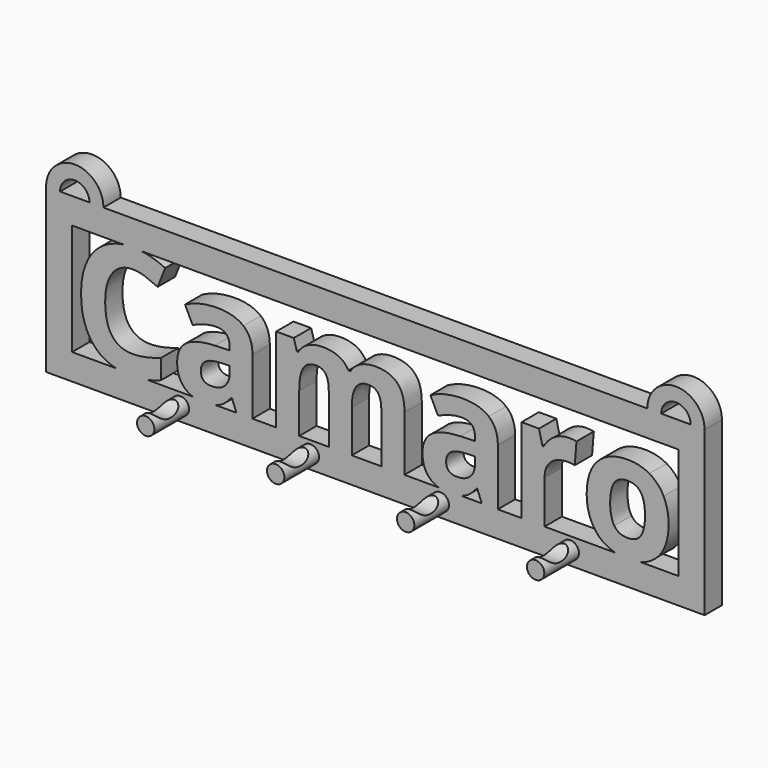
from build123d import *

# Parameters (mm, degrees)
F1_DEPTH = 6.35
F3_R     = 2.54
F4_DEPTH = 12.7
F5_R     = 5.7268820118
F6_DEPTH = 61.722


with BuildPart() as f1:
    # F0 (on Front) → F1 (new body)
    with BuildSketch(Plane.XZ):
        Polygon((-96.52, 26.1363740279), (-96.52, 18.5163740279), (-96.52, -21.7581656293), (96.52, -21.7581656293), (96.52, 26.1363740279), (92.4306, 26.1363740279), (83.7946, 26.1363740279), (79.7052, 26.1363740279), (-79.7118991613, 26.1363740279), (-83.8012991613, 26.1363740279), (-92.4306, 26.1363740279), align=None)
        with BuildLine():
            Line((-88.9, -14.1381656293), (-88.9, 18.5163740279))
            Line((-88.9, 18.5163740279), (-73.7555364835, 18.5163740279))
            add(Edge.make_bspline(
                [(-73.7555364835, 18.5163740279), (-72.4668526308, 18.7006227326), (-71.0703945795, 18.7006227326)],
                knots=[0.6982247505, 0.6982247505, 0.6982247505, 1, 1, 1], degree=2))
            add(Edge.make_bspline(
                [(-71.0703945795, 18.7006227326), (-69.7292151048, 18.7006227326), (-68.3840177456, 18.5163740279)],
                knots=[0, 0, 0, 0.2845995164, 0.2845995164, 0.2845995164], degree=2))
            Line((-68.3840177456, 18.5163740279), (88.9, 18.5163740279))
            Line((88.9, 18.5163740279), (88.9, -14.1381656293))
            Line((88.9, -14.1381656293), (77.6802096988, -14.1381656293))
            add(Edge.make_bspline(
                [(77.6802096988, -14.1381656293), (75.9491649061, -14.5846144137), (73.8908170586, -14.5846144137)],
                knots=[0.6382803275, 0.6382803275, 0.6382803275, 1, 1, 1], degree=2))
            add(Edge.make_bspline(
                [(73.8908170586, -14.5846144137), (71.9855096411, -14.5846144137), (70.3201304819, -14.1381656293)],
                knots=[0, 0, 0, 0.5345224838, 0.5345224838, 0.5345224838], degree=2))
            Line((70.3201304819, -14.1381656293), (49.6195934635, -14.1381656293))
            Line((49.6195934635, -14.1381656293), (42.8661697888, -14.1381656293))
            Line((42.8661697888, -14.1381656293), (35.9072379434, -14.1381656293))
            Line((35.9072379434, -14.1381656293), (31.1947229972, -14.1381656293))
            Line((31.1947229972, -14.1381656293), (25.1527771129, -14.1381656293))
            add(Edge.make_bspline(
                [(25.1527771129, -14.1381656293), (23.6156150178, -14.5846144137), (21.4933200478, -14.5846144137)],
                knots=[0.2677635541, 0.2677635541, 0.2677635541, 1, 1, 1], degree=2))
            add(Edge.make_bspline(
                [(21.4933200478, -14.5846144137), (19.8261760575, -14.5846144137), (18.4907683167, -14.1381656293)],
                knots=[0, 0, 0, 0.4677071733, 0.4677071733, 0.4677071733], degree=2))
            Line((18.4907683167, -14.1381656293), (8.5392188123, -14.1381656293))
            Line((8.5392188123, -14.1381656293), (1.7645356716, -14.1381656293))
            Line((1.7645356716, -14.1381656293), (-6.8951534476, -14.1381656293))
            Line((-6.8951534476, -14.1381656293), (-13.6485771224, -14.1381656293))
            Line((-13.6485771224, -14.1381656293), (-22.3082662415, -14.1381656293))
            Line((-22.3082662415, -14.1381656293), (-29.0616899163, -14.1381656293))
            Line((-29.0616899163, -14.1381656293), (-36.0206217617, -14.1381656293))
            Line((-36.0206217617, -14.1381656293), (-40.7331367079, -14.1381656293))
            Line((-40.7331367079, -14.1381656293), (-46.7750825922, -14.1381656293))
            add(Edge.make_bspline(
                [(-46.7750825922, -14.1381656293), (-48.3122446873, -14.5846144137), (-50.4345396572, -14.5846144137)],
                knots=[0.2677635541, 0.2677635541, 0.2677635541, 1, 1, 1], degree=2))
            add(Edge.make_bspline(
                [(-50.4345396572, -14.5846144137), (-52.1016836475, -14.5846144137), (-53.4370913883, -14.1381656293)],
                knots=[0, 0, 0, 0.4677071733, 0.4677071733, 0.4677071733], degree=2))
            Line((-53.4370913883, -14.1381656293), (-66.8732329505, -14.1381656293))
            add(Edge.make_bspline(
                [(-66.8732329505, -14.1381656293), (-69.1688633821, -14.5846144137), (-71.7152650458, -14.5846144137)],
                knots=[0.4822306436, 0.4822306436, 0.4822306436, 1, 1, 1], degree=2))
            add(Edge.make_bspline(
                [(-71.7152650458, -14.5846144137), (-73.9951810177, -14.5846144137), (-75.9290069403, -14.1381656293)],
                knots=[0, 0, 0, 0.3226952609, 0.3226952609, 0.3226952609], degree=2))
            Line((-75.9290069403, -14.1381656293), (-88.9, -14.1381656293))
        make_face(mode=Mode.SUBTRACT)
        with BuildLine():
            ThreePointArc((-79.7118991613, 26.1363740279), (-88.1159495807, 34.5404244472), (-96.52, 26.1363740279))
            Line((-96.52, 26.1363740279), (-92.4306, 26.1363740279))
            ThreePointArc((-92.4306, 26.1363740279), (-88.1159495807, 30.4510244472), (-83.8012991613, 26.1363740279))
            Line((-83.8012991613, 26.1363740279), (-79.7118991613, 26.1363740279))
        make_face()
        with BuildLine():
            Line((92.4306, 26.1363740279), (96.52, 26.1363740279))
            ThreePointArc((96.52, 26.1363740279), (88.1126, 34.5437740279), (79.7052, 26.1363740279))
            Line((79.7052, 26.1363740279), (83.7946, 26.1363740279))
            ThreePointArc((83.7946, 26.1363740279), (88.1126, 30.4543740279), (92.4306, 26.1363740279))
        make_face()
        with BuildLine():
            Line((-66.8732329505, -14.1381656293), (-75.9290069403, -14.1381656293))
            add(Edge.make_bspline(
                [(-71.7152650458, -14.5846144137), (-73.9951810177, -14.5846144137), (-75.9290069403, -14.1381656293)],
                knots=[0, 0, 0, 0.3226952609, 0.3226952609, 0.3226952609], degree=2))
            add(Edge.make_bspline(
                [(-66.8732329505, -14.1381656293), (-69.1688633821, -14.5846144137), (-71.7152650458, -14.5846144137)],
                knots=[0.4822306436, 0.4822306436, 0.4822306436, 1, 1, 1], degree=2))
        make_face()
        with BuildLine():
            Line((-68.3840177456, 18.5163740279), (-73.7555364835, 18.5163740279))
            add(Edge.make_bspline(
                [(-79.1419051415, 16.6774302256), (-76.7371957247, 18.0900733089), (-73.7555364835, 18.5163740279)],
                knots=[0, 0, 0, 0.6982247505, 0.6982247505, 0.6982247505], degree=2))
            add(Edge.make_bspline(
                [(-84.4248824233, 10.8558798071), (-82.585938621, 14.6542377186), (-79.1419051415, 16.6774302256)],
                knots=[0, 0, 0, 1, 1, 1], degree=2))
            add(Edge.make_bspline(
                [(-86.2638262256, 2.0048554946), (-86.2638262256, 7.0575218956), (-84.4248824233, 10.8558798071)],
                knots=[0, 0, 0, 1, 1, 1], degree=2))
            add(Edge.make_bspline(
                [(-82.5221602232, -10.297288786), (-86.2638262256, -6.0099631582), (-86.2638262256, 2.0048554946)],
                knots=[0, 0, 0, 1, 1, 1], degree=2))
            add(Edge.make_bspline(
                [(-75.9290069403, -14.1381656293), (-79.9879121076, -13.2011147517), (-82.5221602232, -10.297288786)],
                knots=[0.3226952609, 0.3226952609, 0.3226952609, 1, 1, 1], degree=2))
            Line((-75.9290069403, -14.1381656293), (-66.8732329505, -14.1381656293))
            add(Edge.make_bspline(
                [(-62.8146353129, -12.9192895831), (-64.7351702648, -13.722360248), (-66.8732329505, -14.1381656293)],
                knots=[0, 0, 0, 0.4822306436, 0.4822306436, 0.4822306436], degree=2))
            Line((-62.8146353129, -12.9192895831), (-62.8146353129, -7.1650608067))
            add(Edge.make_bspline(
                [(-71.0703945795, -8.8658180805), (-67.6617935432, -8.8658180805), (-62.8146353129, -7.1650608067)],
                knots=[0, 0, 0, 1, 1, 1], degree=2))
            add(Edge.make_bspline(
                [(-79.1985970506, 1.9623365628), (-79.1985970506, -8.8658180805), (-71.0703945795, -8.8658180805)],
                knots=[0, 0, 0, 1, 1, 1], degree=2))
            add(Edge.make_bspline(
                [(-77.0726504583, 10.0763660566), (-79.1985970506, 7.1638192252), (-79.1985970506, 1.9623365628)],
                knots=[0, 0, 0, 1, 1, 1], degree=2))
            add(Edge.make_bspline(
                [(-71.0703945795, 12.988912888), (-74.9467038661, 12.988912888), (-77.0726504583, 10.0763660566)],
                knots=[0, 0, 0, 1, 1, 1], degree=2))
            add(Edge.make_bspline(
                [(-67.4633718613, 12.347585666), (-69.2987724193, 12.988912888), (-71.0703945795, 12.988912888)],
                knots=[0, 0, 0, 1, 1, 1], degree=2))
            add(Edge.make_bspline(
                [(-63.8067437226, 10.8417068298), (-65.6279713033, 11.706258444), (-67.4633718613, 12.347585666)],
                knots=[0, 0, 0, 1, 1, 1], degree=2))
            Line((-63.8067437226, 10.8417068298), (-61.5957592666, 16.4258598788))
            add(Edge.make_bspline(
                [(-68.3840177456, 18.5163740279), (-65.0025824799, 18.0532263245), (-61.5957592666, 16.4258598788)],
                knots=[0.2845995164, 0.2845995164, 0.2845995164, 1, 1, 1], degree=2))
        make_face()
        with BuildLine():
            add(Edge.make_bspline(
                [(-53.4370913883, -14.1381656293), (-54.9569054977, -13.6300667612), (-56.0470386608, -12.5437056851)],
                knots=[0.4677071733, 0.4677071733, 0.4677071733, 1, 1, 1], degree=2))
            Line((-53.4370913883, -14.1381656293), (-46.7750825922, -14.1381656293))
            add(Edge.make_bspline(
                [(-45.7291111997, -13.7519519984), (-46.2129745627, -13.9749086461), (-46.7750825922, -14.1381656293)],
                knots=[0, 0, 0, 0.2677635541, 0.2677635541, 0.2677635541], degree=2))
            add(Edge.make_bspline(
                [(-42.2212993224, -10.7720835249), (-43.9220565963, -12.9192895831), (-45.7291111997, -13.7519519984)],
                knots=[0, 0, 0, 1, 1, 1], degree=2))
            Line((-42.2212993224, -10.7720835249), (-42.0441371064, -10.7720835249))
            Line((-42.0441371064, -10.7720835249), (-40.7331367079, -14.1381656293))
            Line((-40.7331367079, -14.1381656293), (-36.0206217617, -14.1381656293))
            Line((-36.0206217617, -14.1381656293), (-36.0206217617, 2.3591799267))
            add(Edge.make_bspline(
                [(-38.678055002, 8.9602440957), (-36.0206217617, 6.7882353272), (-36.0206217617, 2.3591799267)],
                knots=[0, 0, 0, 1, 1, 1], degree=2))
            add(Edge.make_bspline(
                [(-46.3172897569, 11.1322528641), (-41.3354882423, 11.1322528641), (-38.678055002, 8.9602440957)],
                knots=[0, 0, 0, 1, 1, 1], degree=2))
            add(Edge.make_bspline(
                [(-55.7919250697, 8.8929224536), (-51.5187724193, 11.1322528641), (-46.3172897569, 11.1322528641)],
                knots=[0, 0, 0, 1, 1, 1], degree=2))
            Line((-55.7919250697, 8.8929224536), (-53.5596811479, 4.3292237688))
            add(Edge.make_bspline(
                [(-46.5794898366, 6.122105395), (-49.5487285771, 6.122105395), (-53.5596811479, 4.3292237688)],
                knots=[0, 0, 0, 1, 1, 1], degree=2))
            add(Edge.make_bspline(
                [(-42.7244400159, 2.3591799267), (-42.7244400159, 6.122105395), (-46.5794898366, 6.122105395)],
                knots=[0, 0, 0, 1, 1, 1], degree=2))
            Line((-42.7244400159, 2.3591799267), (-42.7244400159, 1.2749471646))
            Line((-42.7244400159, 1.2749471646), (-47.025938621, 1.1403038804))
            add(Edge.make_bspline(
                [(-55.3383897967, -0.9289508027), (-52.5817457154, 0.9418821985), (-47.025938621, 1.1403038804)],
                knots=[0, 0, 0, 1, 1, 1], degree=2))
            add(Edge.make_bspline(
                [(-58.095033878, -6.7398714882), (-58.095033878, -2.7997838039), (-55.3383897967, -0.9289508027)],
                knots=[0, 0, 0, 1, 1, 1], degree=2))
            add(Edge.make_bspline(
                [(-56.0470386608, -12.5437056851), (-58.095033878, -10.5027969566), (-58.095033878, -6.7398714882)],
                knots=[0, 0, 0, 1, 1, 1], degree=2))
        make_face()
        with BuildLine():
            Line((-45.3393543244, -2.7572648721), (-42.7244400159, -2.6651405197))
            Line((-42.7244400159, -2.6651405197), (-42.7244400159, -4.7060492483))
            add(Edge.make_bspline(
                [(-44.1311080112, -8.2918125006), (-42.7244400159, -6.9382931702), (-42.7244400159, -4.7060492483)],
                knots=[0, 0, 0, 1, 1, 1], degree=2))
            add(Edge.make_bspline(
                [(-47.8904902352, -9.645331831), (-45.5377760064, -9.645331831), (-44.1311080112, -8.2918125006)],
                knots=[0, 0, 0, 1, 1, 1], degree=2))
            add(Edge.make_bspline(
                [(-51.1644479872, -6.7823904201), (-51.1644479872, -9.645331831), (-47.8904902352, -9.645331831)],
                knots=[0, 0, 0, 1, 1, 1], degree=2))
            add(Edge.make_bspline(
                [(-49.7258907931, -3.8166949239), (-51.1644479872, -4.791087112), (-51.1644479872, -6.7823904201)],
                knots=[0, 0, 0, 1, 1, 1], degree=2))
            add(Edge.make_bspline(
                [(-45.3393543244, -2.7572648721), (-48.287333599, -2.8423027358), (-49.7258907931, -3.8166949239)],
                knots=[0, 0, 0, 1, 1, 1], degree=2))
        make_face(mode=Mode.SUBTRACT)
        with BuildLine():
            Line((-46.7750825922, -14.1381656293), (-53.4370913883, -14.1381656293))
            add(Edge.make_bspline(
                [(-50.4345396572, -14.5846144137), (-52.1016836475, -14.5846144137), (-53.4370913883, -14.1381656293)],
                knots=[0, 0, 0, 0.4677071733, 0.4677071733, 0.4677071733], degree=2))
            add(Edge.make_bspline(
                [(-46.7750825922, -14.1381656293), (-48.3122446873, -14.5846144137), (-50.4345396572, -14.5846144137)],
                knots=[0.2677635541, 0.2677635541, 0.2677635541, 1, 1, 1], degree=2))
        make_face()
        with BuildLine():
            Line((-29.0616899163, 10.6220256819), (-29.0616899163, -14.1381656293))
            Line((-29.0616899163, -14.1381656293), (-22.3082662415, -14.1381656293))
            Line((-22.3082662415, -14.1381656293), (-22.3082662415, -2.4879783037))
            add(Edge.make_bspline(
                [(-21.1354523715, 3.7764776548), (-22.3082662415, 1.8702122104), (-22.3082662415, -2.4879783037)],
                knots=[0, 0, 0, 1, 1, 1], degree=2))
            add(Edge.make_bspline(
                [(-17.3689836588, 5.6827430992), (-19.9626385014, 5.6827430992), (-21.1354523715, 3.7764776548)],
                knots=[0, 0, 0, 1, 1, 1], degree=2))
            add(Edge.make_bspline(
                [(-14.5450179354, 4.3433967461), (-15.4414587485, 5.6827430992), (-17.3689836588, 5.6827430992)],
                knots=[0, 0, 0, 1, 1, 1], degree=2))
            add(Edge.make_bspline(
                [(-13.6485771224, 0.3253576867), (-13.6485771224, 3.004050393), (-14.5450179354, 4.3433967461)],
                knots=[0, 0, 0, 1, 1, 1], degree=2))
            Line((-13.6485771224, 0.3253576867), (-13.6485771224, -14.1381656293))
            Line((-13.6485771224, -14.1381656293), (-6.8951534476, -14.1381656293))
            Line((-6.8951534476, -14.1381656293), (-6.8951534476, -1.7155510418))
            add(Edge.make_bspline(
                [(-5.6656476684, 3.911120939), (-6.8951534476, 2.1394987788), (-6.8951534476, -1.7155510418)],
                knots=[0, 0, 0, 1, 1, 1], degree=2))
            add(Edge.make_bspline(
                [(-1.9558708649, 5.6827430992), (-4.4361418892, 5.6827430992), (-5.6656476684, 3.911120939)],
                knots=[0, 0, 0, 1, 1, 1], degree=2))
            add(Edge.make_bspline(
                [(0.8680948585, 4.3433967461), (-0.0283459546, 5.6827430992), (-1.9558708649, 5.6827430992)],
                knots=[0, 0, 0, 1, 1, 1], degree=2))
            add(Edge.make_bspline(
                [(1.7645356716, 0.3253576867), (1.7645356716, 3.004050393), (0.8680948585, 4.3433967461)],
                knots=[0, 0, 0, 1, 1, 1], degree=2))
            Line((1.7645356716, 0.3253576867), (1.7645356716, -14.1381656293))
            Line((1.7645356716, -14.1381656293), (8.5392188123, -14.1381656293))
            Line((8.5392188123, -14.1381656293), (8.5392188123, 2.0048554946))
            add(Edge.make_bspline(
                [(6.3813830211, 8.9248116525), (8.5392188123, 6.7669758613), (8.5392188123, 2.0048554946)],
                knots=[0, 0, 0, 1, 1, 1], degree=2))
            add(Edge.make_bspline(
                [(0.0141729773, 11.0826474436), (4.22354723, 11.0826474436), (6.3813830211, 8.9248116525)],
                knots=[0, 0, 0, 1, 1, 1], degree=2))
            add(Edge.make_bspline(
                [(-4.3581905141, 10.1330579657), (-2.4235791152, 11.0826474436), (0.0141729773, 11.0826474436)],
                knots=[0, 0, 0, 1, 1, 1], degree=2))
            add(Edge.make_bspline(
                [(-7.2919968115, 7.4543652595), (-6.2928019131, 9.1834684878), (-4.3581905141, 10.1330579657)],
                knots=[0, 0, 0, 1, 1, 1], degree=2))
            Line((-7.2919968115, 7.4543652595), (-7.8872618573, 7.4543652595))
            add(Edge.make_bspline(
                [(-15.4201992826, 11.0826474436), (-9.8643921881, 11.0826474436), (-7.8872618573, 7.4543652595)],
                knots=[0, 0, 0, 1, 1, 1], degree=2))
            add(Edge.make_bspline(
                [(-19.7394141092, 10.1224282328), (-17.857951375, 11.0826474436), (-15.4201992826, 11.0826474436)],
                knots=[0, 0, 0, 1, 1, 1], degree=2))
            add(Edge.make_bspline(
                [(-22.6200717417, 7.4543652595), (-21.6208768434, 9.1622090219), (-19.7394141092, 10.1224282328)],
                knots=[0, 0, 0, 1, 1, 1], degree=2))
            Line((-22.6200717417, 7.4543652595), (-22.9956556397, 7.4543652595))
            Line((-22.9956556397, 7.4543652595), (-23.9027261857, 10.6220256819))
            Line((-23.9027261857, 10.6220256819), (-29.0616899163, 10.6220256819))
        make_face()
        with BuildLine():
            Line((31.1947229972, -14.1381656293), (35.9072379434, -14.1381656293))
            Line((35.9072379434, -14.1381656293), (35.9072379434, 2.3591799267))
            add(Edge.make_bspline(
                [(33.2498047031, 8.9602440957), (35.9072379434, 6.7882353272), (35.9072379434, 2.3591799267)],
                knots=[0, 0, 0, 1, 1, 1], degree=2))
            add(Edge.make_bspline(
                [(25.6105699482, 11.1322528641), (30.5923714627, 11.1322528641), (33.2498047031, 8.9602440957)],
                knots=[0, 0, 0, 1, 1, 1], degree=2))
            add(Edge.make_bspline(
                [(16.1359346353, 8.8929224536), (20.4090872858, 11.1322528641), (25.6105699482, 11.1322528641)],
                knots=[0, 0, 0, 1, 1, 1], degree=2))
            Line((16.1359346353, 8.8929224536), (18.3681785572, 4.3292237688))
            add(Edge.make_bspline(
                [(25.3483698685, 6.122105395), (22.3791311279, 6.122105395), (18.3681785572, 4.3292237688)],
                knots=[0, 0, 0, 1, 1, 1], degree=2))
            add(Edge.make_bspline(
                [(29.2034196891, 2.3591799267), (29.2034196891, 6.122105395), (25.3483698685, 6.122105395)],
                knots=[0, 0, 0, 1, 1, 1], degree=2))
            Line((29.2034196891, 2.3591799267), (29.2034196891, 1.2749471646))
            Line((29.2034196891, 1.2749471646), (24.9019210841, 1.1403038804))
            add(Edge.make_bspline(
                [(16.5894699083, -0.9289508027), (19.3461139896, 0.9418821985), (24.9019210841, 1.1403038804)],
                knots=[0, 0, 0, 1, 1, 1], degree=2))
            add(Edge.make_bspline(
                [(13.832825827, -6.7398714882), (13.832825827, -2.7997838039), (16.5894699083, -0.9289508027)],
                knots=[0, 0, 0, 1, 1, 1], degree=2))
            add(Edge.make_bspline(
                [(15.8808210442, -12.5437056851), (13.832825827, -10.5027969566), (13.832825827, -6.7398714882)],
                knots=[0, 0, 0, 1, 1, 1], degree=2))
            add(Edge.make_bspline(
                [(18.4907683167, -14.1381656293), (16.9709542074, -13.6300667612), (15.8808210442, -12.5437056851)],
                knots=[0.4677071733, 0.4677071733, 0.4677071733, 1, 1, 1], degree=2))
            Line((18.4907683167, -14.1381656293), (25.1527771129, -14.1381656293))
            add(Edge.make_bspline(
                [(26.1987485054, -13.7519519984), (25.7148851424, -13.9749086461), (25.1527771129, -14.1381656293)],
                knots=[0, 0, 0, 0.2677635541, 0.2677635541, 0.2677635541], degree=2))
            add(Edge.make_bspline(
                [(29.7065603826, -10.7720835249), (28.0058031088, -12.9192895831), (26.1987485054, -13.7519519984)],
                knots=[0, 0, 0, 1, 1, 1], degree=2))
            Line((29.7065603826, -10.7720835249), (29.8837225986, -10.7720835249))
            Line((29.8837225986, -10.7720835249), (31.1947229972, -14.1381656293))
        make_face()
        with BuildLine():
            Line((26.5885053806, -2.7572648721), (29.2034196891, -2.6651405197))
            Line((29.2034196891, -2.6651405197), (29.2034196891, -4.7060492483))
            add(Edge.make_bspline(
                [(27.7967516939, -8.2918125006), (29.2034196891, -6.9382931702), (29.2034196891, -4.7060492483)],
                knots=[0, 0, 0, 1, 1, 1], degree=2))
            add(Edge.make_bspline(
                [(24.0373694699, -9.645331831), (26.3900836987, -9.645331831), (27.7967516939, -8.2918125006)],
                knots=[0, 0, 0, 1, 1, 1], degree=2))
            add(Edge.make_bspline(
                [(20.7634117178, -6.7823904201), (20.7634117178, -9.645331831), (24.0373694699, -9.645331831)],
                knots=[0, 0, 0, 1, 1, 1], degree=2))
            add(Edge.make_bspline(
                [(22.2019689119, -3.8166949239), (20.7634117178, -4.791087112), (20.7634117178, -6.7823904201)],
                knots=[0, 0, 0, 1, 1, 1], degree=2))
            add(Edge.make_bspline(
                [(26.5885053806, -2.7572648721), (23.640526106, -2.8423027358), (22.2019689119, -3.8166949239)],
                knots=[0, 0, 0, 1, 1, 1], degree=2))
        make_face(mode=Mode.SUBTRACT)
        with BuildLine():
            add(Edge.make_bspline(
                [(25.1527771129, -14.1381656293), (23.6156150178, -14.5846144137), (21.4933200478, -14.5846144137)],
                knots=[0.2677635541, 0.2677635541, 0.2677635541, 1, 1, 1], degree=2))
            Line((25.1527771129, -14.1381656293), (18.4907683167, -14.1381656293))
            add(Edge.make_bspline(
                [(21.4933200478, -14.5846144137), (19.8261760575, -14.5846144137), (18.4907683167, -14.1381656293)],
                knots=[0, 0, 0, 0.4677071733, 0.4677071733, 0.4677071733], degree=2))
        make_face()
        with BuildLine():
            Line((42.8661697888, -14.1381656293), (49.6195934635, -14.1381656293))
            Line((49.6195934635, -14.1381656293), (49.6195934635, -1.5383888258))
            add(Edge.make_bspline(
                [(51.426648067, 3.1138909669), (49.6195934635, 1.4521093806), (49.6195934635, -1.5383888258)],
                knots=[0, 0, 0, 1, 1, 1], degree=2))
            add(Edge.make_bspline(
                [(56.4651414906, 4.7756725532), (53.2337026704, 4.7756725532), (51.426648067, 3.1138909669)],
                knots=[0, 0, 0, 1, 1, 1], degree=2))
            add(Edge.make_bspline(
                [(58.4564447987, 4.5559914053), (57.6344121164, 4.7756725532), (56.4651414906, 4.7756725532)],
                knots=[0, 0, 0, 1, 1, 1], degree=2))
            Line((58.4564447987, 4.5559914053), (58.9666719809, 10.8842257617))
            add(Edge.make_bspline(
                [(56.6848226385, 11.0826474436), (58.0596014348, 11.0826474436), (58.9666719809, 10.8842257617)],
                knots=[0, 0, 0, 1, 1, 1], degree=2))
            add(Edge.make_bspline(
                [(52.422299721, 9.8106227326), (54.3817138302, 11.0826474436), (56.6848226385, 11.0826474436)],
                knots=[0, 0, 0, 1, 1, 1], degree=2))
            add(Edge.make_bspline(
                [(49.3077879633, 6.4551703611), (50.4628856118, 8.5385980215), (52.422299721, 9.8106227326)],
                knots=[0, 0, 0, 1, 1, 1], degree=2))
            Line((49.3077879633, 6.4551703611), (48.9818094859, 6.4551703611))
            Line((48.9818094859, 6.4551703611), (47.9826145875, 10.6220256819))
            Line((47.9826145875, 10.6220256819), (42.8661697888, 10.6220256819))
            Line((42.8661697888, 10.6220256819), (42.8661697888, -14.1381656293))
        make_face()
        with BuildLine():
            Line((70.3201304819, -14.1381656293), (77.6802096988, -14.1381656293))
            add(Edge.make_bspline(
                [(82.7701873256, -11.1724701331), (80.734762495, -13.3503747019), (77.6802096988, -14.1381656293)],
                knots=[0, 0, 0, 0.6382803275, 0.6382803275, 0.6382803275], degree=2))
            add(Edge.make_bspline(
                [(85.959107214, -1.7155510418), (85.959107214, -7.7603258525), (82.7701873256, -11.1724701331)],
                knots=[0, 0, 0, 1, 1, 1], degree=2))
            add(Edge.make_bspline(
                [(84.499290554, 5.0839348091), (85.959107214, 2.1820177106), (85.959107214, -1.7155510418)],
                knots=[0, 0, 0, 1, 1, 1], degree=2))
            add(Edge.make_bspline(
                [(80.3147190116, 9.5342496756), (83.039473894, 7.9858519075), (84.499290554, 5.0839348091)],
                knots=[0, 0, 0, 1, 1, 1], degree=2))
            add(Edge.make_bspline(
                [(74.0254603428, 11.0826474436), (77.5899641291, 11.0826474436), (80.3147190116, 9.5342496756)],
                knots=[0, 0, 0, 1, 1, 1], degree=2))
            add(Edge.make_bspline(
                [(65.1212873655, 7.7165653392), (68.2854045436, 11.0826474436), (74.0254603428, 11.0826474436)],
                knots=[0, 0, 0, 1, 1, 1], degree=2))
            add(Edge.make_bspline(
                [(61.9571701873, -1.7155510418), (61.9571701873, 4.3504832348), (65.1212873655, 7.7165653392)],
                knots=[0, 0, 0, 1, 1, 1], degree=2))
            add(Edge.make_bspline(
                [(63.4169868473, -8.5362963587), (61.9571701873, -5.6131197943), (61.9571701873, -1.7155510418)],
                knots=[0, 0, 0, 1, 1, 1], degree=2))
            add(Edge.make_bspline(
                [(67.6015583898, -13.0220436684), (64.8768035074, -11.4594729231), (63.4169868473, -8.5362963587)],
                knots=[0, 0, 0, 1, 1, 1], degree=2))
            add(Edge.make_bspline(
                [(70.3201304819, -14.1381656293), (68.8698705247, -13.7493852178), (67.6015583898, -13.0220436684)],
                knots=[0.5345224838, 0.5345224838, 0.5345224838, 1, 1, 1], degree=2))
        make_face()
        with BuildLine():
            add(Edge.make_bspline(
                [(68.8381506576, -1.7155510418), (68.8381506576, -5.3934386465), (70.0463969709, -7.2749013806)],
                knots=[0, 0, 0, 1, 1, 1], degree=2))
            add(Edge.make_bspline(
                [(70.0357672379, 3.811910098), (68.8381506576, 1.9835960287), (68.8381506576, -1.7155510418)],
                knots=[0, 0, 0, 1, 1, 1], degree=2))
            add(Edge.make_bspline(
                [(73.9333359904, 5.6402241674), (71.2333838183, 5.6402241674), (70.0357672379, 3.811910098)],
                knots=[0, 0, 0, 1, 1, 1], degree=2))
            add(Edge.make_bspline(
                [(77.8557074532, 3.8012803651), (76.6616341172, 5.6402241674), (73.9333359904, 5.6402241674)],
                knots=[0, 0, 0, 1, 1, 1], degree=2))
            add(Edge.make_bspline(
                [(79.0497807892, -1.7155510418), (79.0497807892, 1.9623365628), (77.8557074532, 3.8012803651)],
                knots=[0, 0, 0, 1, 1, 1], degree=2))
            add(Edge.make_bspline(
                [(77.8663371861, -7.2855311136), (79.0497807892, -5.4146981124), (79.0497807892, -1.7155510418)],
                knots=[0, 0, 0, 1, 1, 1], degree=2))
            add(Edge.make_bspline(
                [(73.9758549223, -9.1563641148), (76.6828935831, -9.1563641148), (77.8663371861, -7.2855311136)],
                knots=[0, 0, 0, 1, 1, 1], degree=2))
            add(Edge.make_bspline(
                [(70.0463969709, -7.2749013806), (71.2546432842, -9.1563641148), (73.9758549223, -9.1563641148)],
                knots=[0, 0, 0, 1, 1, 1], degree=2))
        make_face(mode=Mode.SUBTRACT)
        with BuildLine():
            add(Edge.make_bspline(
                [(77.6802096988, -14.1381656293), (75.9491649061, -14.5846144137), (73.8908170586, -14.5846144137)],
                knots=[0.6382803275, 0.6382803275, 0.6382803275, 1, 1, 1], degree=2))
            Line((77.6802096988, -14.1381656293), (70.3201304819, -14.1381656293))
            add(Edge.make_bspline(
                [(73.8908170586, -14.5846144137), (71.9855096411, -14.5846144137), (70.3201304819, -14.1381656293)],
                knots=[0, 0, 0, 0.5345224838, 0.5345224838, 0.5345224838], degree=2))
        make_face()
        with BuildLine():
            add(Edge.make_bspline(
                [(-73.7555364835, 18.5163740279), (-72.4668526308, 18.7006227326), (-71.0703945795, 18.7006227326)],
                knots=[0.6982247505, 0.6982247505, 0.6982247505, 1, 1, 1], degree=2))
            Line((-73.7555364835, 18.5163740279), (-68.3840177456, 18.5163740279))
            add(Edge.make_bspline(
                [(-71.0703945795, 18.7006227326), (-69.7292151048, 18.7006227326), (-68.3840177456, 18.5163740279)],
                knots=[0, 0, 0, 0.2845995164, 0.2845995164, 0.2845995164], degree=2))
        make_face()
    extrude(amount=F1_DEPTH)

    # F3 (on offset) → F4 (join)
    with BuildSketch(Plane.XZ.offset(6.35)):
        with Locations((-57.15, -17.7273340523)):
            Circle(F3_R)
        with Locations((-19.05, -17.7273340523)):
            Circle(F3_R)
        with Locations((19.05, -17.7273340523)):
            Circle(F3_R)
        with Locations((57.15, -17.7273340523)):
            Circle(F3_R)
    extrude(amount=F4_DEPTH)

    # F5 (on Right) → F6 (cut, symmetric)
    with BuildSketch(Plane.YZ):
        with Locations((-12.9970163107, -11.5221776068)):
            Circle(F5_R)
    extrude(amount=F6_DEPTH, both=True, mode=Mode.SUBTRACT)


solid = f1.part
